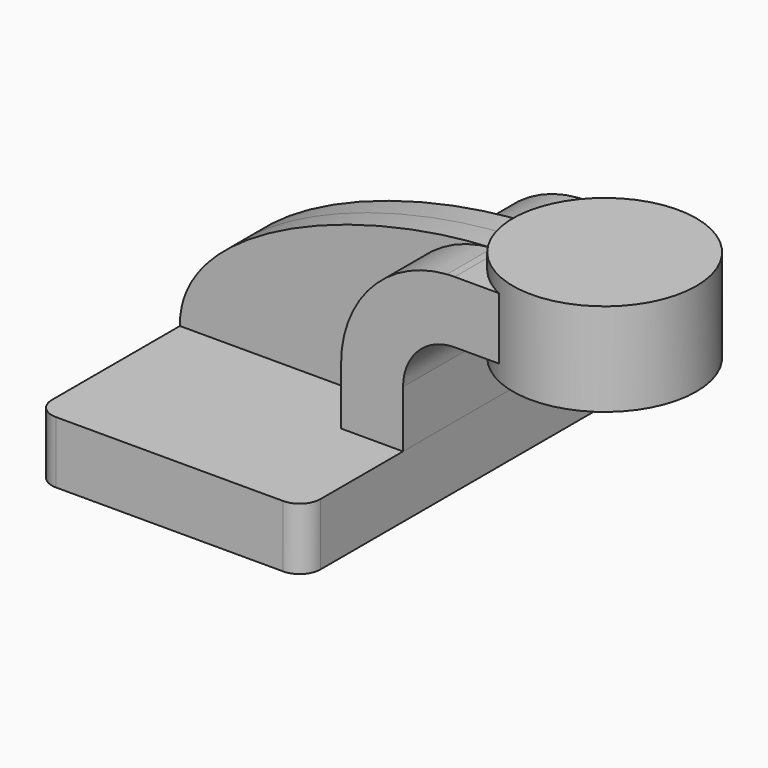
from build123d import *

# Parameters (mm, degrees)
F1_DEPTH = 63.5
F0_W     = 22.604974729
F0_H     = 19.05
F2_DEPTH = 25.4
F3_DEPTH = 7.9375
F5_R     = 6.35


with BuildPart() as f1:
    # F0 (on Front) → F1 (new body, symmetric)
    with BuildSketch(Plane.XZ):
        Polygon((-41.275, -9.525), (41.275, -9.525), (41.275, 9.525), (22.225, 9.525), (-41.275, 9.525), align=None)
    extrude(amount=F1_DEPTH, both=True)

    # F5
    f5_edges = [f1.edges().sort_by_distance(p)[0] for p in [
        (-41.275, -63.5, 0),
        (-41.275, 63.5, 0),
        (41.275, 63.5, 0),
        (41.275, -63.5, 0),
    ]]
    fillet(f5_edges, radius=F5_R)


with BuildPart() as f2:
    # F0 (on Front) → F2 (new body, symmetric)
    with BuildSketch(Plane.XZ):
        with Locations((71.6274873645, 52.4002)):
            Rectangle(F0_W, F0_H)
        with BuildLine():
            Line((22.225, 9.525), (41.275, 9.525))
            Line((41.275, 9.525), (41.275, 27.0002))
            ThreePointArc((41.275, 27.0002), (45.9246798487, 38.2255201513), (57.15, 42.8752))
            Line((57.15, 42.8752), (60.325, 42.8752))
            Line((60.325, 42.8752), (60.325, 61.9252))
            Line((60.325, 61.9252), (57.15, 61.9252))
            add(Edge.make_bspline(
                [(54.7657787961, 61.8437232755), (55.5646724331, 61.8778522086), (56.3595578229, 61.9050383377), (57.15, 61.9252)],
                knots=[109.4523374969, 109.4523374969, 109.4523374969, 109.4523374969, 111.5045361635, 111.5045361635, 111.5045361635, 111.5045361635], degree=3))
            ThreePointArc((54.7657787961, 61.8437232755), (31.6252615043, 50.8380553928), (22.225, 27.0002))
            Line((22.225, 27.0002), (22.225, 9.525))
        make_face()
    extrude(amount=F2_DEPTH, both=True)


with BuildPart() as f3:
    # F0 (on Front) → F3 (new body, symmetric)
    with BuildSketch(Plane.XZ):
        with BuildLine():
            add(Edge.make_bspline(
                [(-41.275, 9.525), (-41.8524980669, 38.4541969798), (12.1574400412, 60.0234845422), (54.7657787961, 61.8437232755)],
                knots=[0, 0, 0, 0, 109.4523374969, 109.4523374969, 109.4523374969, 109.4523374969], degree=3))
            Line((-41.275, 9.525), (22.225, 9.525))
            Line((22.225, 9.525), (22.225, 27.0002))
            ThreePointArc((22.225, 27.0002), (31.6252615043, 50.8380553928), (54.7657787961, 61.8437232755))
        make_face()
    extrude(amount=F3_DEPTH, both=True)


with BuildPart() as f4:
    # F0 (on Front) → F4 (revolve)
    with BuildSketch(Plane.XZ):
        Polygon((82.929974729, 61.9252), (82.929974729, 42.8752), (82.929974729, 38.1000029986), (111.125, 38.1000029986), (111.125, 66.6750029986), (82.929974729, 66.6750029986), align=None)
    revolve(axis=Axis((82.929974729, 0, 52.4002), (0, 0, -1)))


solid = Compound([f1.part, f2.part, f3.part, f4.part])
